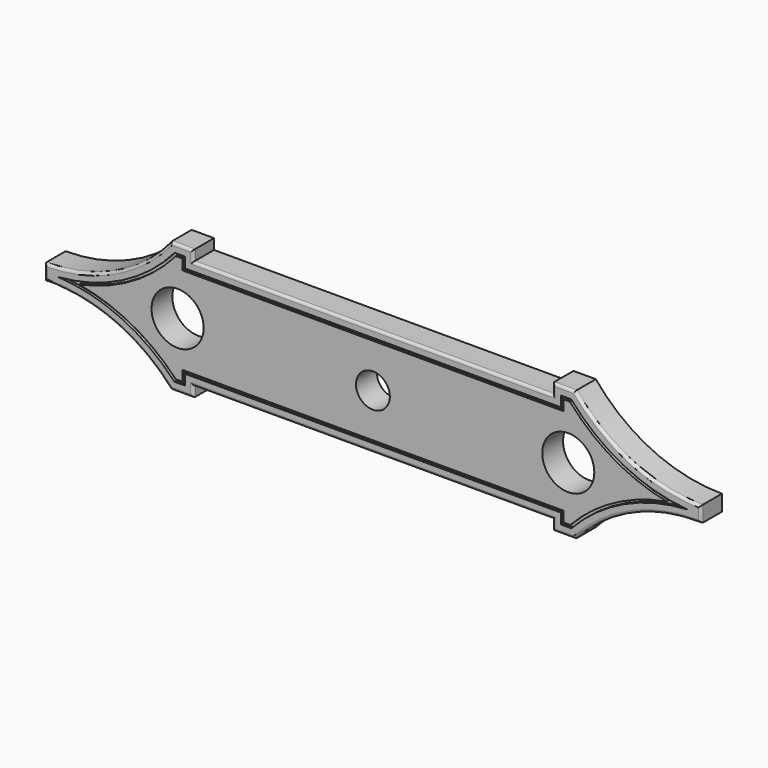
from build123d import *

# Parameters (mm, degrees)
F0_R     = 10
F0_R_2   = 6.5
F1_DEPTH = 10
F2_DEPTH = 9
F3_R     = 1


with BuildPart() as f1:
    # F0 (on Front) → F1 (new body)
    with BuildSketch(Plane.XZ):
        with BuildLine():
            Line((69, -25), (77.6, -25))
            ThreePointArc((77.6, -25), (99.482843, -9.173343), (126, -4.05648))
            Line((126, -4.05648), (126, 2.04352))
            ThreePointArc((126, 2.04352), (99.215863, 8.073528), (77.6, 25))
            Line((77.6, 25), (69, 25))
            Line((69, 25), (69, 21))
            Line((69, 21), (-69, 21))
            Line((-69, 21), (-69, 25))
            Line((-69, 25), (-77.6, 25))
            ThreePointArc((-77.6, 25), (-99.215863, 8.073528), (-126, 2.04352))
            Line((-126, 2.04352), (-126, -4.05648))
            ThreePointArc((-126, -4.05648), (-99.482843, -9.173343), (-77.6, -25))
            Line((-77.6, -25), (-69, -25))
            Line((-69, -25), (-69, -21))
            Line((-69, -21), (69, -21))
            Line((69, -21), (69, -25))
        make_face()
        with BuildLine():
            Line((-76.109897, 21.81), (-72.19, 21.81))
            Line((-72.19, 21.81), (-72.19, 17.81))
            Line((-72.19, 17.81), (72.19, 17.81))
            Line((72.19, 17.81), (72.19, 21.81))
            Line((72.19, 21.81), (76.109897, 21.81))
            ThreePointArc((76.109897, 21.81), (96.187204, 6.008289), (120.774538, -0.938314))
            ThreePointArc((120.774538, -0.938314), (96.452782, -7.039668), (76.189226, -21.81))
            Line((76.189226, -21.81), (72.19, -21.81))
            Line((72.19, -21.81), (72.19, -17.81))
            Line((72.19, -17.81), (-72.19, -17.81))
            Line((-72.19, -17.81), (-72.19, -21.81))
            Line((-72.19, -21.81), (-76.189226, -21.81))
            ThreePointArc((-76.189226, -21.81), (-96.452782, -7.039668), (-120.774538, -0.938314))
            ThreePointArc((-120.774538, -0.938314), (-96.187204, 6.008289), (-76.109897, 21.81))
        make_face(mode=Mode.SUBTRACT)
        with BuildLine():
            Line((-73.19, 16.81), (-73.19, 20.81))
            Line((-73.19, 20.81), (-75.651859, 20.81))
            ThreePointArc((-75.651859, 20.81), (-92.453393, 6.905154), (-112.842512, -0.835655))
            ThreePointArc((-112.842512, -0.835655), (-92.625004, -7.802454), (-75.651859, -20.81))
            Line((-75.651859, -20.81), (-73.19, -20.81))
            Line((-73.19, -20.81), (-73.19, -16.81))
            Line((-73.19, -16.81), (73.19, -16.81))
            Line((73.19, -16.81), (73.19, -20.81))
            Line((73.19, -20.81), (75.755417, -20.81))
            ThreePointArc((75.755417, -20.81), (92.680477, -7.817723), (112.842512, -0.835655))
            ThreePointArc((112.842512, -0.835655), (92.453393, 6.905154), (75.651859, 20.81))
            Line((75.651859, 20.81), (73.19, 20.81))
            Line((73.19, 20.81), (73.19, 16.81))
            Line((73.19, 16.81), (-73.19, 16.81))
        make_face()
        with Locations((-75, 0)):
            Circle(F0_R, mode=Mode.SUBTRACT)
        Circle(F0_R_2, mode=Mode.SUBTRACT)
        with Locations((75, 0)):
            Circle(F0_R, mode=Mode.SUBTRACT)
    extrude(amount=F1_DEPTH)

    # F0 (on Front) → F2 (join)
    with BuildSketch(Plane.XZ):
        with BuildLine():
            Line((-72.19, 17.81), (-72.19, 21.81))
            Line((-72.19, 21.81), (-76.109897, 21.81))
            ThreePointArc((-76.109897, 21.81), (-96.187204, 6.008289), (-120.774538, -0.938314))
            ThreePointArc((-120.774538, -0.938314), (-96.452782, -7.039668), (-76.189226, -21.81))
            Line((-76.189226, -21.81), (-72.19, -21.81))
            Line((-72.19, -21.81), (-72.19, -17.81))
            Line((-72.19, -17.81), (72.19, -17.81))
            Line((72.19, -17.81), (72.19, -21.81))
            Line((72.19, -21.81), (76.189226, -21.81))
            ThreePointArc((76.189226, -21.81), (96.452782, -7.039668), (120.774538, -0.938314))
            ThreePointArc((120.774538, -0.938314), (96.187204, 6.008289), (76.109897, 21.81))
            Line((76.109897, 21.81), (72.19, 21.81))
            Line((72.19, 21.81), (72.19, 17.81))
            Line((72.19, 17.81), (-72.19, 17.81))
        make_face()
        with BuildLine():
            Line((-75.651859, 20.81), (-73.19, 20.81))
            Line((-73.19, 20.81), (-73.19, 16.81))
            Line((-73.19, 16.81), (73.19, 16.81))
            Line((73.19, 16.81), (73.19, 20.81))
            Line((73.19, 20.81), (75.651859, 20.81))
            ThreePointArc((75.651859, 20.81), (92.453393, 6.905154), (112.842512, -0.835655))
            ThreePointArc((112.842512, -0.835655), (92.680477, -7.817723), (75.755417, -20.81))
            Line((75.755417, -20.81), (73.19, -20.81))
            Line((73.19, -20.81), (73.19, -16.81))
            Line((73.19, -16.81), (-73.19, -16.81))
            Line((-73.19, -16.81), (-73.19, -20.81))
            Line((-73.19, -20.81), (-75.651859, -20.81))
            ThreePointArc((-75.651859, -20.81), (-92.625004, -7.802454), (-112.842512, -0.835655))
            ThreePointArc((-112.842512, -0.835655), (-92.453393, 6.905154), (-75.651859, 20.81))
        make_face(mode=Mode.SUBTRACT)
    extrude(amount=F2_DEPTH)

    # F3
    f3_edges = [f1.edges().sort_by_distance(p)[0] for p in [
        (-99.215863, -10, 8.073528),
        (-126, -10, -1.00648),
        (-99.482843, -10, -9.173343),
        (-73.3, -10, -25),
        (-69, -10, -23),
        (0, -10, -21),
        (-73.3, -10, 25),
        (-69, -10, 23),
        (0, -10, 21),
        (69, -10, -23),
        (73.3, -10, -25),
        (99.482843, -10, -9.173343),
        (126, -10, -1.00648),
        (99.215863, -10, 8.073528),
        (73.3, -10, 25),
        (69, -10, 23),
    ]]
    fillet(f3_edges, radius=F3_R)


solid = f1.part
